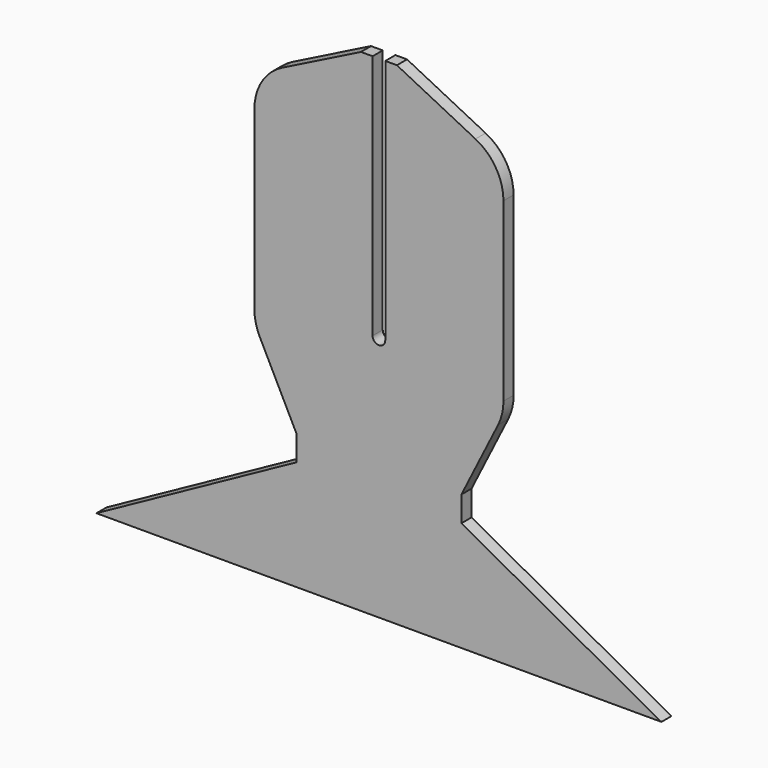
from build123d import *

# Parameters (mm, degrees)
F1_DEPTH = 25


with BuildPart() as f1:
    # F0 (on Front) → F1 (new body)
    with BuildSketch(Plane.XZ):
        with BuildLine():
            Line((-596.032966, -507.336307), (518.190233, -507.336307))
            Line((518.190233, -507.336307), (123.755328, -290.723505))
            Line((123.755328, -290.723505), (123.755328, -240.723505))
            Line((123.755328, -240.723505), (196.048285, -96.483587))
            ThreePointArc((196.048285, -96.483587), (203.962367, -74.698427), (206.648497, -51.676469))
            Line((206.648497, -51.676469), (206.648497, 296.082553))
            ThreePointArc((206.648497, 296.082553), (191.743361, 348.607442), (151.471217, 385.474519))
            Line((151.471217, 385.474519), (-3.422625, 463.141044))
            Line((-3.422625, 463.141044), (-26.421366, 463.141044))
            Line((-26.421366, 463.141044), (-26.421366, -22.097631))
            ThreePointArc((-26.421366, -22.097631), (-38.921366, -34.597631), (-51.421366, -22.097631))
            Line((-51.421366, -22.097631), (-51.421366, 463.141044))
            Line((-51.421366, 463.141044), (-74.420107, 463.141044))
            Line((-74.420107, 463.141044), (-229.31395, 385.474519))
            ThreePointArc((-229.31395, 385.474519), (-269.586094, 348.607442), (-284.491229, 296.082553))
            Line((-284.491229, 296.082553), (-284.491229, -51.676469))
            ThreePointArc((-284.491229, -51.676469), (-281.8051, -74.698427), (-273.891018, -96.483587))
            Line((-273.891018, -96.483587), (-201.598061, -240.723505))
            Line((-201.598061, -240.723505), (-201.598061, -290.723505))
            Line((-201.598061, -290.723505), (-596.032966, -507.336307))
        make_face()
    extrude(amount=F1_DEPTH)


solid = f1.part
